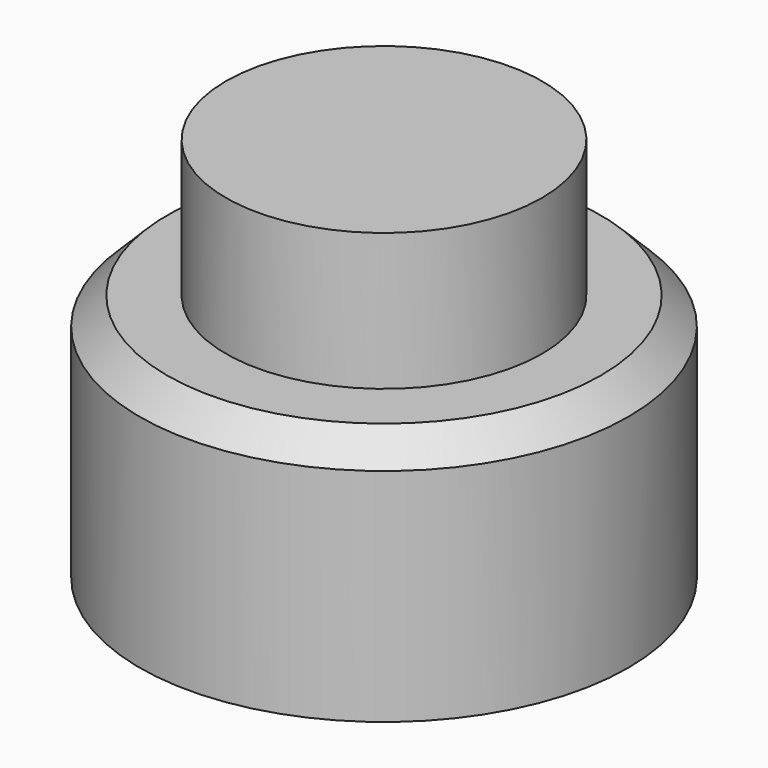
from build123d import *

# Parameters (mm, degrees)
F0_R     = 45.219595
F1_DEPTH = 45.974
F2_SIZE  = 5.08
F3_R     = 29.259427
F4_DEPTH = 25.4


with BuildPart() as f1:
    # F0 (on Top) → F1 (new body)
    with BuildSketch(Plane.XY):
        with Locations((86.820111, 0)):
            Circle(F0_R)
    extrude(amount=F1_DEPTH)

    # F2
    f2_edges = [f1.edges().sort_by_distance(p)[0] for p in [
        (41.600516, 0, 45.974),
    ]]
    chamfer(f2_edges, length=F2_SIZE)

    # F3 (on face) → F4 (join)
    with BuildSketch(Plane.XY.offset(45.974)):
        with Locations((86.820111, 0)):
            Circle(F3_R)
    extrude(amount=F4_DEPTH)


solid = f1.part
